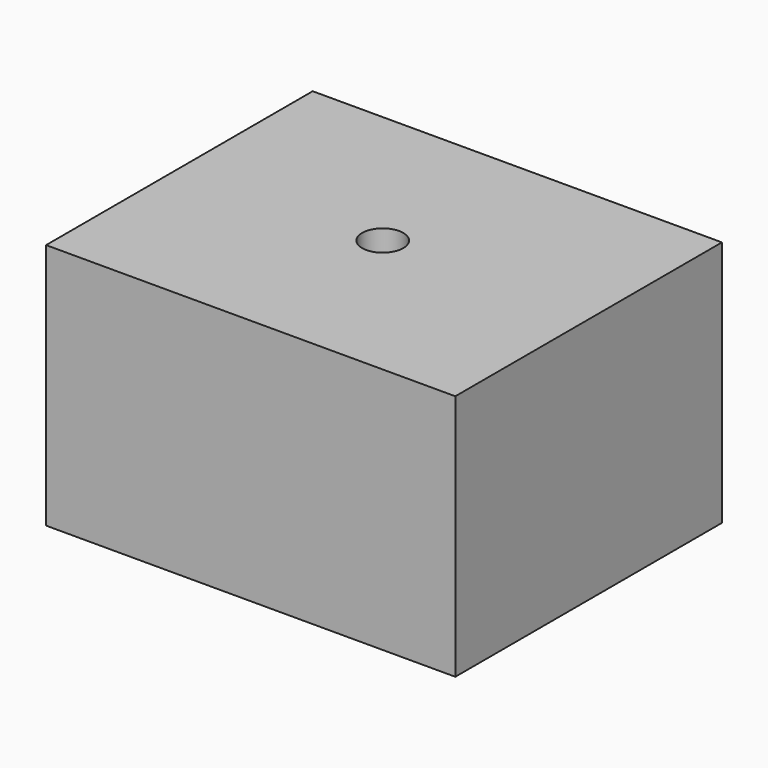
from build123d import *

# Parameters (mm, degrees)
F0_W     = 12.6262992853
F0_H     = 10.2827516384
F1_DEPTH = 7.62
F3_D     = 1.27
F3_DEPTH = 5.08
F3_TIP   = 0.3815464931


with BuildPart() as f1:
    # F0 (on Top) → F1 (new body)
    with BuildSketch(Plane.XY):
        with Locations((4.6872274834, 0.5871730391)):
            Rectangle(F0_W, F0_H)
    extrude(amount=F1_DEPTH)

    # F3
    with Locations(Plane.XY.offset(7.62)):
        with Locations((4.5581934974, 0.6986723747)):
            Hole(F3_D / 2, depth=F3_DEPTH)
            with Locations((0, 0, -(F3_DEPTH + F3_TIP / 2))):  # 118° drill point
                Cone(0, F3_D / 2, F3_TIP, mode=Mode.SUBTRACT)


solid = f1.part
